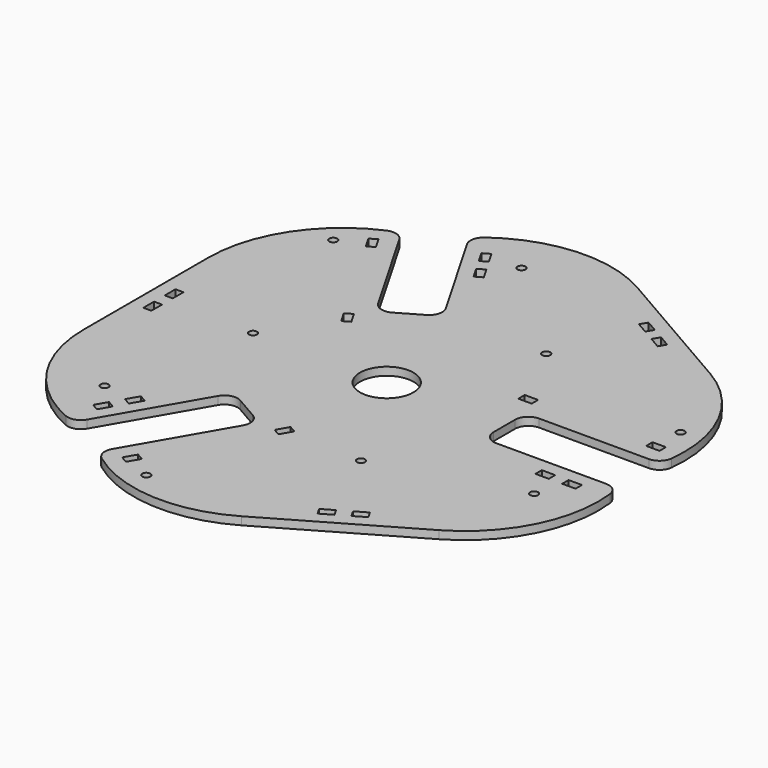
from build123d import *

# Parameters (mm, degrees)
F0_W     = 3
F0_H     = 5
F0_R     = 10
F0_W_2   = 5
F0_H_2   = 3
F1_DEPTH = 3
F2_R     = 1.5
F2_W     = 5
F2_H     = 3
F3_DEPTH = 3


with BuildPart() as f1:
    # F0 (on Top) → F1 (new body)
    with BuildSketch(Plane.XY):
        with BuildLine():
            Line((48.9590259639, 10), (90, 10))
            ThreePointArc((90, 10), (93.331517757, 11.2715969323), (94.96849641, 14.439604226))
            ThreePointArc((94.96849641, 14.439604226), (89.9197428946, 42.5737351708), (70.2835323098, 63.3448321555))
            Line((70.2835323098, 63.3448321555), (45, 77.9422863406))
            Line((45, 77.9422863406), (19.7164676902, 92.5397405257))
            ThreePointArc((19.7164676902, 92.5397405257), (-8.0899352554, 99.1596492339), (-34.9791841247, 89.4649325633))
            ThreePointArc((-34.9791841247, 89.4649325633), (-36.9042695939, 86.4632638174), (-36.3397459622, 82.9422863406))
            Line((-36.3397459622, 82.9422863406), (-15.8192589441, 47.3997602293))
            ThreePointArc((-15.8192589441, 47.3997602293), (-15.3197568316, 43.6056650038), (-17.649385963, 40.5696332104))
            Line((-17.649385963, 40.5696332104), (-26.3096400009, 35.5696332104))
            ThreePointArc((-26.3096400009, 35.5696332104), (-30.1037352264, 35.0701310979), (-33.1397670198, 37.3997602293))
            Line((-33.1397670198, 37.3997602293), (-53.6602540378, 72.9422863406))
            ThreePointArc((-53.6602540378, 72.9422863406), (-56.4272481631, 75.1916668851), (-59.9893122853, 75.0253283373))
            ThreePointArc((-59.9893122853, 75.0253283373), (-81.8298076392, 56.5859140631), (-90, 29.1949083702))
            Line((-90, 29.1949083702), (-90, 0))
            Line((-90, 0), (-90, -29.1949083702))
            ThreePointArc((-90, -29.1949083702), (-81.8298076392, -56.5859140631), (-59.9893122853, -75.0253283373))
            ThreePointArc((-59.9893122853, -75.0253283373), (-56.4272481631, -75.1916668851), (-53.6602540378, -72.9422863406))
            Line((-53.6602540378, -72.9422863406), (-33.1397670198, -37.3997602293))
            ThreePointArc((-33.1397670198, -37.3997602293), (-30.1037352264, -35.0701310979), (-26.3096400009, -35.5696332104))
            Line((-26.3096400009, -35.5696332104), (-17.649385963, -40.5696332104))
            ThreePointArc((-17.649385963, -40.5696332104), (-15.3197568316, -43.6056650038), (-15.8192589441, -47.3997602293))
            Line((-15.8192589441, -47.3997602293), (-36.3397459622, -82.9422863406))
            ThreePointArc((-36.3397459622, -82.9422863406), (-36.9042695939, -86.4632638174), (-34.9791841247, -89.4649325633))
            ThreePointArc((-34.9791841247, -89.4649325633), (-8.0899352554, -99.1596492339), (19.7164676902, -92.5397405257))
            Line((19.7164676902, -92.5397405257), (45, -77.9422863406))
            Line((45, -77.9422863406), (70.2835323098, -63.3448321555))
            ThreePointArc((70.2835323098, -63.3448321555), (89.9197428946, -42.5737351708), (94.96849641, -14.439604226))
            ThreePointArc((94.96849641, -14.439604226), (93.331517757, -11.2715969323), (90, -10))
            Line((90, -10), (48.9590259639, -10))
            ThreePointArc((48.9590259639, -10), (45.423492058, -8.5355339059), (43.9590259639, -5))
            Line((43.9590259639, -5), (43.9590259639, 5))
            ThreePointArc((43.9590259639, 5), (45.423492058, 8.5355339059), (48.9590259639, 10))
        make_face()
        Polygon((-28.1401412901, -86.7401544467), (-30.7382175015, -85.2401544467), (-28.2382175015, -80.9100274278), (-25.6401412901, -82.4100274278), align=None, mode=Mode.SUBTRACT)
        with Locations((-83.5, -5)):
            Rectangle(F0_W, F0_H, mode=Mode.SUBTRACT)
        Polygon((-4.2401412901, -45.3441401458), (-6.8382175015, -43.8441401458), (-4.3382175015, -39.5140131269), (-1.7401412901, -41.0140131269), align=None, mode=Mode.SUBTRACT)
        Polygon((40.3349364905, -74.8621593217), (36.0048094716, -77.3621593217), (34.5048094716, -74.7640831103), (38.8349364905, -72.2640831103), align=None, mode=Mode.SUBTRACT)
        Polygon((48.9951905284, -69.8621593217), (44.6650635095, -72.3621593217), (43.1650635095, -69.7640831103), (47.4951905284, -67.2640831103), align=None, mode=Mode.SUBTRACT)
        with Locations((-83.5, 5)):
            Rectangle(F0_W, F0_H, mode=Mode.SUBTRACT)
        Circle(F0_R, mode=Mode.SUBTRACT)
        Polygon((-37.1491066339, 26.3441401458), (-34.5510304226, 27.8441401458), (-32.0510304226, 23.5140131269), (-34.6491066339, 22.0140131269), align=None, mode=Mode.SUBTRACT)
        Polygon((-61.0491066339, 67.7401544467), (-58.4510304226, 69.2401544467), (-55.9510304226, 64.9100274278), (-58.5491066339, 63.4100274278), align=None, mode=Mode.SUBTRACT)
        with Locations((38.8892479241, 17.5)):
            Rectangle(F0_W_2, F0_H_2, mode=Mode.SUBTRACT)
        with Locations((86.6892479241, 17.5)):
            Rectangle(F0_W_2, F0_H_2, mode=Mode.SUBTRACT)
        Polygon((44.6650635095, 72.3621593217), (48.9951905284, 69.8621593217), (47.4951905284, 67.2640831103), (43.1650635095, 69.7640831103), align=None, mode=Mode.SUBTRACT)
        Polygon((36.0048094716, 77.3621593217), (40.3349364905, 74.8621593217), (38.8349364905, 72.2640831103), (34.5048094716, 74.7640831103), align=None, mode=Mode.SUBTRACT)
    extrude(amount=F1_DEPTH)

    # F2 (on face) → F3 (cut, through all)
    with BuildSketch(Plane.XY.offset(3)):
        with Locations((-50, 0)):
            Circle(F2_R)
        with Locations((25, -43.3012701892)):
            Circle(F2_R)
        with Locations((25, 43.3012701892)):
            Circle(F2_R)
        with Locations((86.6892479241, 29)):
            Circle(F2_R)
        with Locations((-68.4593606718, 60.5750909372)):
            Circle(F2_R)
        with Locations((-18.2298872523, -89.5750909372)):
            Circle(F2_R)
        with Locations((72.5, -16.5)):
            Rectangle(F2_W, F2_H)
        with Locations((82.5, -16.5)):
            Rectangle(F2_W, F2_H)
        Polygon((-24.5096189432, 72.4519052838), (-22.0096189432, 68.1217782649), (-19.4115427319, 69.6217782649), (-21.9115427319, 73.9519052838), align=None)
        Polygon((-29.5096189432, 81.1121593217), (-27.0096189432, 76.7820323028), (-24.4115427319, 78.2820323028), (-26.9115427319, 82.6121593217), align=None)
        Polygon((-50.4903810568, -57.4519052838), (-47.9903810568, -53.1217782649), (-50.5884572681, -51.6217782649), (-53.0884572681, -55.9519052838), align=None)
        Polygon((-55.4903810568, -66.1121593217), (-52.9903810568, -61.7820323028), (-55.5884572681, -60.2820323028), (-58.0884572681, -64.6121593217), align=None)
        with Locations((77.5, -28)):
            Circle(F2_R)
        with Locations((-14.501288694, 81.1169687933)):
            Circle(F2_R)
        with Locations((-62.998711306, -53.1169687933)):
            Circle(F2_R)
    extrude(amount=-F3_DEPTH, mode=Mode.SUBTRACT)


solid = f1.part
